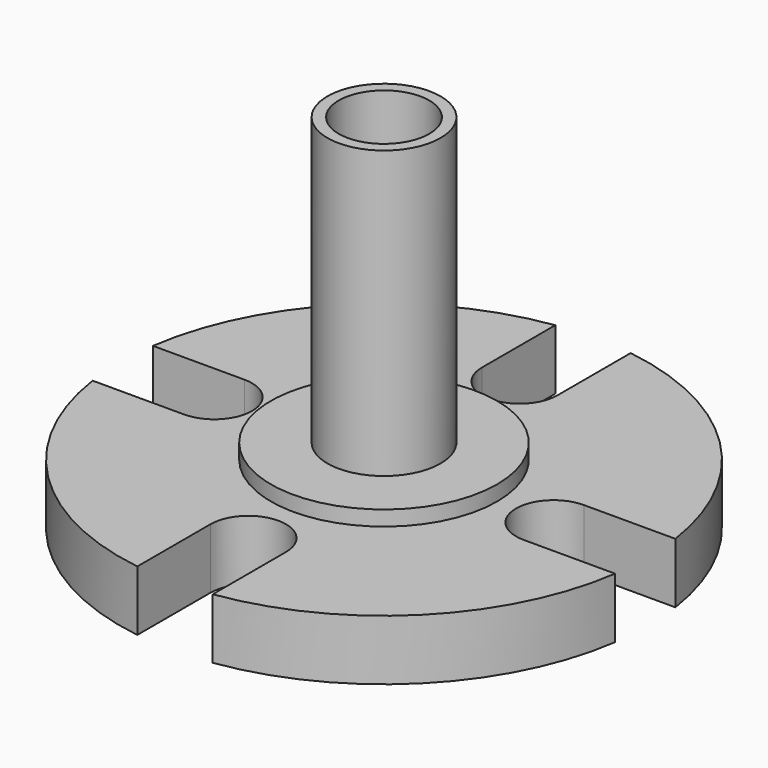
from build123d import *

# Parameters (mm, degrees)
SKETCH_R           = 0.75
SKETCH_R_2         = 0.6
PAD_DEPTH          = 4.8
PAD_DEPTH_BACK     = 0.8
SKETCH001_R        = 3.5
SKETCH001_R_2      = 0.6
PAD001_DEPTH       = 0.8
POCKET_DEPTH       = 24.348308
POLARPATTERN_COUNT = 4
SKETCH003_R        = 1.5
SKETCH003_R_2      = 0.6
PAD002_DEPTH       = 0.2


with BuildPart() as part:
    # Sketch → Pad (new body, two sides)
    with BuildSketch(Plane.XY) as pad_sk:
        Circle(SKETCH_R)
        Circle(SKETCH_R_2, mode=Mode.SUBTRACT)
    extrude(amount=PAD_DEPTH)
    extrude(pad_sk.sketch, amount=-PAD_DEPTH_BACK)

    # Sketch001 → Pad001 (join)
    with BuildSketch(Plane.XY):
        Circle(SKETCH001_R)
        Circle(SKETCH001_R_2, mode=Mode.SUBTRACT)
    extrude(amount=PAD001_DEPTH)

    # Sketch002 (on Face8 of Pad001) → Pocket (cut, through all)
    with BuildSketch(Plane.XY.offset(0.8)):
        with BuildLine():
            Line((-0.5, 3.75), (0.5, 3.75))
            Line((0.5, 3.75), (0.5, 2.25))
            ThreePointArc((-0.5, 2.25), (0, 1.75), (0.5, 2.25))
            Line((-0.5, 2.25), (-0.5, 3.75))
        make_face()
    pocket = extrude(amount=-POCKET_DEPTH, mode=Mode.SUBTRACT)

    # PolarPattern: Pocket ×4 about axis
    polarpattern_axis = Axis((0, 0, 0.8), (0, 0, 1))
    for i in range(1, POLARPATTERN_COUNT):
        add(pocket.rotate(polarpattern_axis, i * 360 / POLARPATTERN_COUNT), mode=Mode.SUBTRACT)

    # Sketch003 (on Face23 of PolarPattern) → Pad002 (join)
    with BuildSketch(Plane.XY.offset(0.8)):
        Circle(SKETCH003_R)
        Circle(SKETCH003_R_2, mode=Mode.SUBTRACT)
    extrude(amount=PAD002_DEPTH)


solid = part.part
